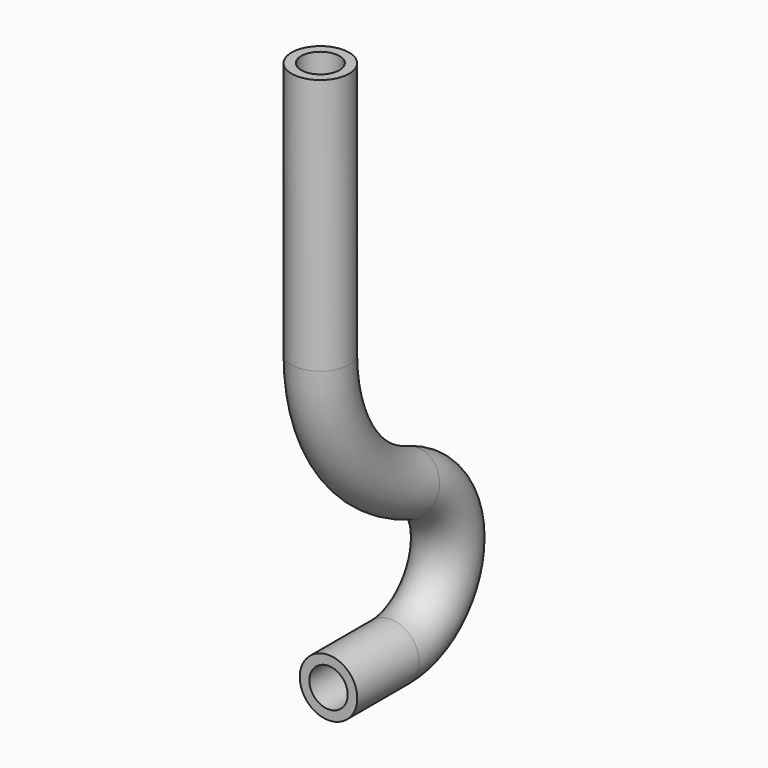
from build123d import *

# Parameters (mm, degrees)
SKETCH086_R   = 3
SKETCH086_R_2 = 2


with BuildPart() as part:
    # AdditivePipe002: sweep along a path in Sketch085
    with BuildLine(Plane.YZ) as additivepipe002_path:
        Line((0, 0), (8.080041, 0))
        ThreePointArc((8.080041, 0), (15.441707, 6.195646), (10.594056, 14.50711))
        ThreePointArc((10.594056, 14.50711), (2.14173, 20.933751), (-1.066078, 31.055682))
        Line((-1.066078, 31.055682), (-1.066078, 57.808475))
    # Sketch086 → AdditivePipe002 (sweep)
    with BuildSketch(Plane.XZ):
        Circle(SKETCH086_R)
        Circle(SKETCH086_R_2, mode=Mode.SUBTRACT)
    sweep(path=additivepipe002_path.line, is_frenet=True)


solid = part.part
